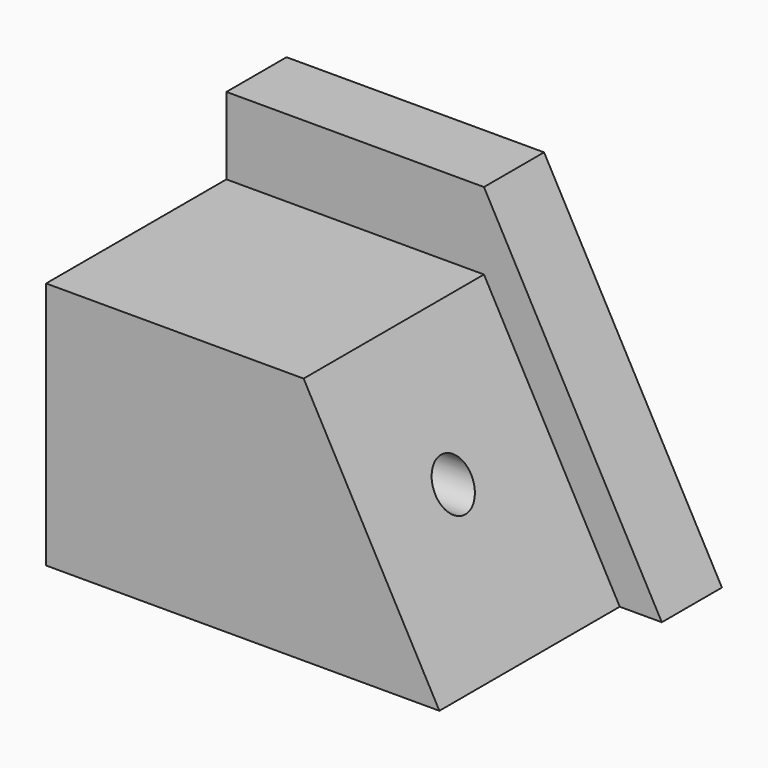
from build123d import *

# Parameters (mm, degrees)
F1_DEPTH = 50.8
F2_DEPTH = 12.7
F3_R     = 3.771706
F4_DEPTH = 127


with BuildPart() as f1:
    # F0 (on Front) → F1 (new body)
    with BuildSketch(Plane.XZ):
        Polygon((43.533504, 41.975465), (0, 41.975465), (0, 0), (66.480095, 0), align=None)
    extrude(amount=F1_DEPTH)

    # F0 (on Front) → F2 (join)
    with BuildSketch(Plane.XZ):
        Polygon((43.533504, 54.989692), (0, 54.989692), (0, 41.975465), (43.533504, 41.975465), (66.480095, 0), (73.59454, 0), align=None)
    extrude(amount=F2_DEPTH)

    # F3 (on face) → F4 (cut, symmetric)
    with BuildSketch(Plane(origin=(0, 0, 0), x_dir=(0, -1, 0), z_dir=(-1, 0, 0))):
        with Locations((32.626301, 22.3139)):
            Circle(F3_R)
    extrude(amount=F4_DEPTH, both=True, mode=Mode.SUBTRACT)


solid = f1.part
